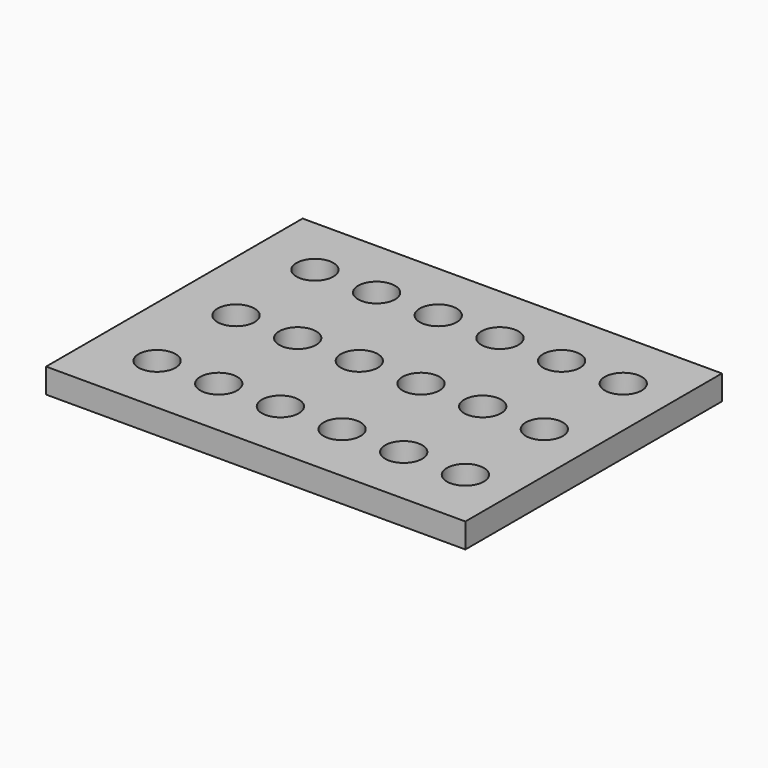
from build123d import *

# Parameters (mm, degrees)
F0_W     = 170
F0_H     = 130
F0_R     = 7.5
F1_DEPTH = 10


with BuildPart() as f1:
    # F0 (on Top) → F1 (new body)
    with BuildSketch(Plane.XY):
        Rectangle(F0_W, F0_H)
        with Locations((-60, -40)):
            Circle(F0_R, mode=Mode.SUBTRACT)
        with Locations((-35, -40)):
            Circle(F0_R, mode=Mode.SUBTRACT)
        with Locations((-10, -40)):
            Circle(F0_R, mode=Mode.SUBTRACT)
        with Locations((15, -40)):
            Circle(F0_R, mode=Mode.SUBTRACT)
        with Locations((40, -40)):
            Circle(F0_R, mode=Mode.SUBTRACT)
        with Locations((65, -40)):
            Circle(F0_R, mode=Mode.SUBTRACT)
        with Locations((-60, 0)):
            Circle(F0_R, mode=Mode.SUBTRACT)
        with Locations((-35, 0)):
            Circle(F0_R, mode=Mode.SUBTRACT)
        with Locations((-10, 0)):
            Circle(F0_R, mode=Mode.SUBTRACT)
        with Locations((-60, 40)):
            Circle(F0_R, mode=Mode.SUBTRACT)
        with Locations((-35, 40)):
            Circle(F0_R, mode=Mode.SUBTRACT)
        with Locations((-10, 40)):
            Circle(F0_R, mode=Mode.SUBTRACT)
        with Locations((15, 0)):
            Circle(F0_R, mode=Mode.SUBTRACT)
        with Locations((40, 0)):
            Circle(F0_R, mode=Mode.SUBTRACT)
        with Locations((65, 0)):
            Circle(F0_R, mode=Mode.SUBTRACT)
        with Locations((15, 40)):
            Circle(F0_R, mode=Mode.SUBTRACT)
        with Locations((40, 40)):
            Circle(F0_R, mode=Mode.SUBTRACT)
        with Locations((65, 40)):
            Circle(F0_R, mode=Mode.SUBTRACT)
    extrude(amount=F1_DEPTH)


solid = f1.part
